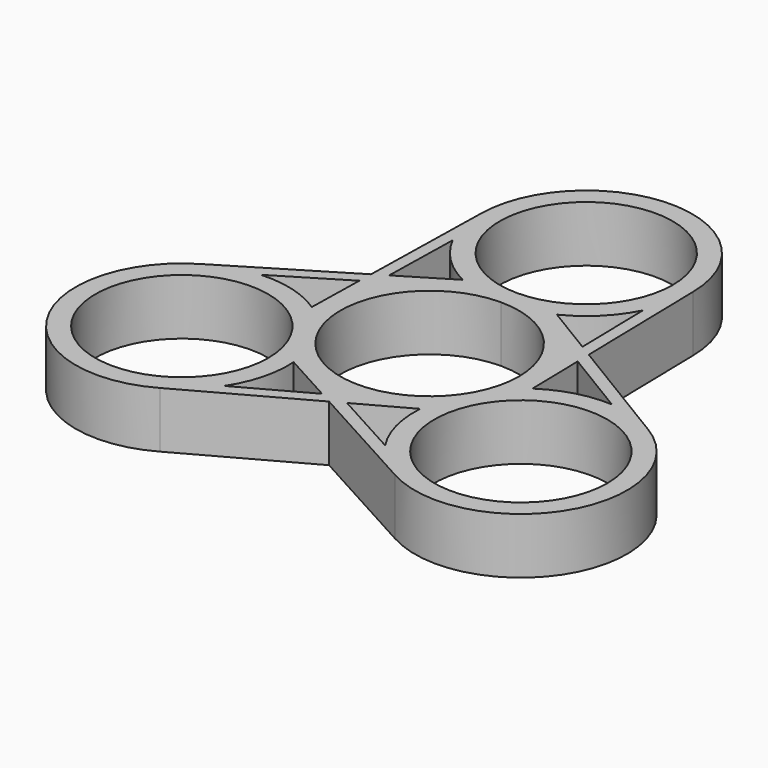
from build123d import *

# Parameters (mm, degrees)
F0_R     = 10.8
F1_DEPTH = 7


with BuildPart() as f1:
    # F0 (on Top) → F1 (new body)
    with BuildSketch(Plane.XY):
        with BuildLine():
            ThreePointArc((0, 11.15), (-7.884241, -7.884241), (11.15, 0))
            ThreePointArc((11.15, 0), (7.884241, 7.884241), (0, 11.15))
        make_face()
        with BuildLine():
            ThreePointArc((10.8, 24.45), (-7.636753, 32.086753), (0, 13.65))
            ThreePointArc((0, 13.65), (7.636753, 16.813247), (10.8, 24.45))
        make_face()
        with BuildLine():
            Line((13.594803, 7.848963), (13.243034, 24.595936))
            ThreePointArc((13.243034, 24.595936), (0, 37.693838), (-13.243034, 24.595936))
            Line((-13.243034, 24.595936), (-13.594803, 7.848963))
            Line((-13.594803, 7.848963), (-27.922223, -0.829164))
            ThreePointArc((-27.922223, -0.829164), (-32.643821, -18.846919), (-14.679189, -23.766772))
            Line((-14.679189, -23.766772), (0, -15.697926))
            Line((0, -15.697926), (14.679189, -23.766772))
            ThreePointArc((14.679189, -23.766772), (32.643821, -18.846919), (27.922223, -0.829164))
            Line((27.922223, -0.829164), (13.594803, 7.848963))
        make_face()
        with Locations((-21.174321, -12.225)):
            Circle(F0_R, mode=Mode.SUBTRACT)
        with BuildLine():
            Line((-1.556976, -14.842089), (-10.045749, -19.508191))
            ThreePointArc((-10.045749, -19.508191), (-8.311064, -15.605329), (-7.90288, -11.353877))
            Line((-7.90288, -11.353877), (-1.556976, -14.842089))
        make_face(mode=Mode.SUBTRACT)
        with BuildLine():
            ThreePointArc((-13.784186, -1.167156), (-17.670144, 0.605072), (-21.917463, 1.054222))
            Line((-21.917463, 1.054222), (-13.632114, 6.072664))
            Line((-13.632114, 6.072664), (-13.784186, -1.167156))
        make_face(mode=Mode.SUBTRACT)
        with BuildLine():
            ThreePointArc((7.90288, -11.353877), (8.311064, -15.605329), (10.045749, -19.508191))
            Line((10.045749, -19.508191), (1.556976, -14.842089))
            Line((1.556976, -14.842089), (7.90288, -11.353877))
        make_face(mode=Mode.SUBTRACT)
        with Locations((21.174321, -12.225)):
            Circle(F0_R, mode=Mode.SUBTRACT)
        with BuildLine():
            ThreePointArc((0, 11.15), (7.884241, 7.884241), (11.15, 0))
            ThreePointArc((11.15, 0), (-7.884241, -7.884241), (0, 11.15))
        make_face(mode=Mode.SUBTRACT)
        with BuildLine():
            Line((13.632114, 6.072664), (21.917463, 1.054222))
            ThreePointArc((21.917463, 1.054222), (17.670144, 0.605072), (13.784186, -1.167156))
            Line((13.784186, -1.167156), (13.632114, 6.072664))
        make_face(mode=Mode.SUBTRACT)
        with BuildLine():
            Line((-12.075138, 8.769425), (-11.871715, 18.453969))
            ThreePointArc((-11.871715, 18.453969), (-9.359079, 15.000258), (-5.881306, 12.521034))
            Line((-5.881306, 12.521034), (-12.075138, 8.769425))
        make_face(mode=Mode.SUBTRACT)
        with BuildLine():
            ThreePointArc((5.881306, 12.521034), (9.359079, 15.000258), (11.871715, 18.453969))
            Line((11.871715, 18.453969), (12.075138, 8.769425))
            Line((12.075138, 8.769425), (5.881306, 12.521034))
        make_face(mode=Mode.SUBTRACT)
        with BuildLine():
            ThreePointArc((10.8, 24.45), (7.636753, 16.813247), (0, 13.65))
            ThreePointArc((0, 13.65), (-7.636753, 32.086753), (10.8, 24.45))
        make_face(mode=Mode.SUBTRACT)
    extrude(amount=F1_DEPTH)


solid = f1.part
